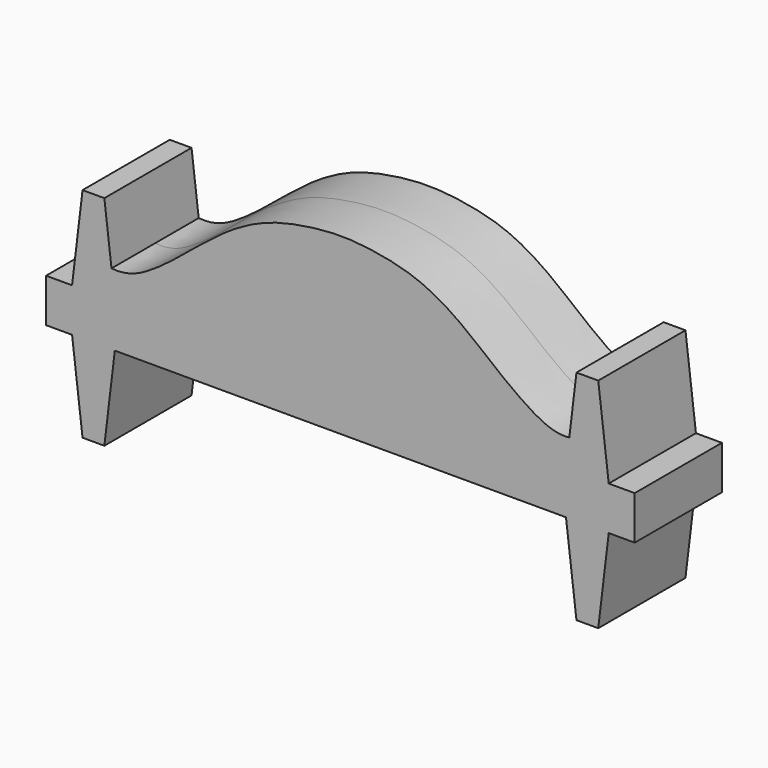
from build123d import *

# Parameters (mm, degrees)
F1_W     = 54
F1_H     = 4
F2_DEPTH = 5
F4_DEPTH = 5
F6_DEPTH = 5


with BuildPart() as f2:
    # F1 (on Front) → F2 (new body, symmetric)
    with BuildSketch(Plane.XZ):
        with Locations((0, 24.4391597784)):
            Rectangle(F1_W, F1_H)
    extrude(amount=F2_DEPTH, both=True)

    # F5: F4 across plane


with BuildPart() as f4:
    # F3 (on Front) → F4 (new body, symmetric)
    with BuildSketch(Plane.XZ):
        Polygon((21.6551174292, 34.4391597784), (20.4551174292, 24.4391597784), (21.6551174292, 14.4391597784), (23.6551174292, 14.4391597784), (24.8551174292, 24.4391597784), (23.6551174292, 34.4391597784), align=None)
    extrude(amount=F4_DEPTH, both=True)


with BuildPart() as f2_1:
    add(f2.part)
    add(f4.part.mirror(Plane.YZ))


    add(f4.part)  # F6 merges F4
    # F0 (on Front) → F6 (join, symmetric)
    with BuildSketch(Plane.XZ):
        with BuildLine():
            Line((-21, 26.4391597784), (21, 26.4391597784))
            Line((21, 26.4391597784), (21, 28.9798478681))
            add(Edge.make_bspline(
                [(-21, 28.9798478681), (-19.5953512364, 28.8401652252), (-17.391429418, 29.8376339387), (-13.9476569454, 32.6070199787), (-10.5904127723, 35.42087783), (-7.0658407923, 37.3677794905), (-3.5015046033, 38.199162892), (-0.0004836835, 38.5579308119), (3.5247350414, 38.2002323502), (7.084375424, 37.3668707381), (10.6175923145, 35.4245267912), (13.9608785638, 32.5811894464), (17.4960225284, 29.8837543114), (19.7866070593, 28.8401652252), (21, 28.9798478681)],
                knots=[0, 0, 0, 0, 0.0806013739, 0.1686553866, 0.2573747863, 0.3413343067, 0.4214474157, 0.5001651337, 0.5791215884, 0.6592349037, 0.7431945127, 0.831913137, 0.921023509, 1, 1, 1, 1], degree=3))
            Line((-21, 28.9798478681), (-21, 26.4391597784))
        make_face()
    extrude(amount=F6_DEPTH, both=True)


solid = f2_1.part
